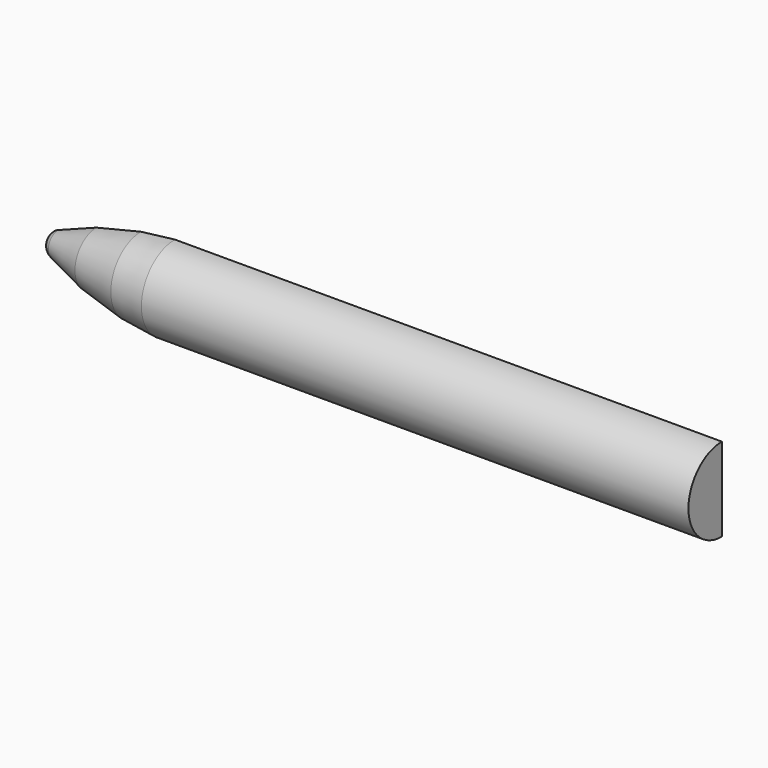
from build123d import *

# Parameters (mm, degrees)
F1_ANGLE = 180


with BuildPart() as f1:
    # F0 (on Front) → F1 (revolve)
    with BuildSketch(Plane.XZ):
        with BuildLine():
            Line((13952.6751789783, 1066.8), (0, 1066.8))
            Line((0, 1066.8), (-864.8421168327, 961.4792466164))
            Line((-864.8421168327, 961.4792466164), (-2002.2288076651, 683.6925452499))
            Line((-2002.2288076651, 683.6925452499), (-2976.8250068617, 312.6369062986))
            ThreePointArc((-2976.8250068617, 312.6369062986), (-3133.2303619462, 189.8565281225), (-3192.3248210217, 0))
            Line((-3192.3248210217, 0), (13952.6751789783, 0))
            Line((13952.6751789783, 0), (13952.6751789783, 1066.8))
        make_face()
    revolve(axis=Axis((28213.1769786395, 0, 0), (1, 0, 0)), revolution_arc=F1_ANGLE)


solid = f1.part
